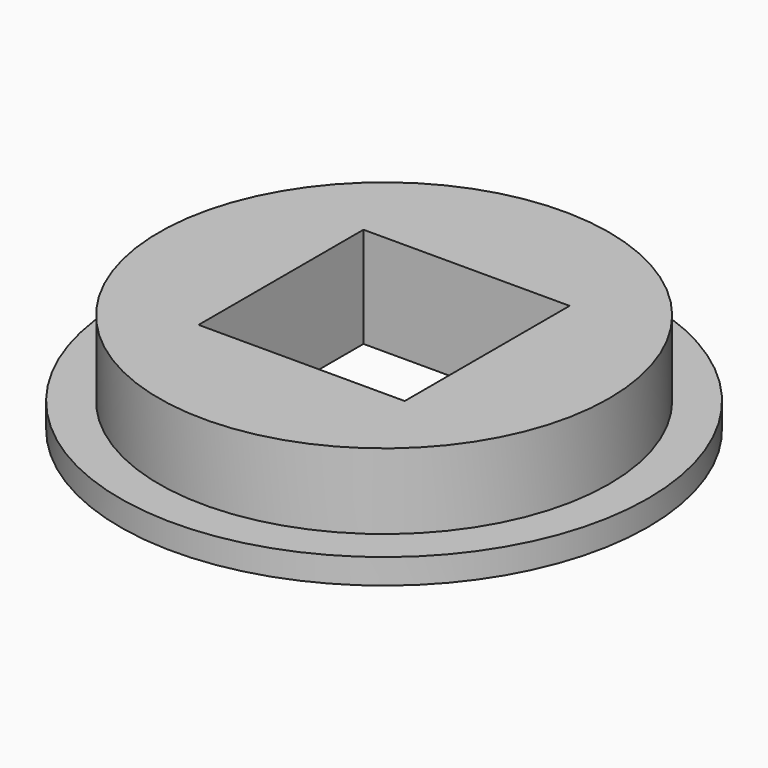
from build123d import *

# Parameters (mm, degrees)
SKETCH_R     = 8.95
SKETCH_W     = 8.2
SKETCH_H     = 8.2
PAD_DEPTH    = 4
SKETCH001_R  = 10.5
SKETCH001_W  = 8.2
SKETCH001_H  = 8.2
PAD001_DEPTH = 1


with BuildPart() as part:
    # Sketch → Pad (new body)
    with BuildSketch(Plane.XY):
        Circle(SKETCH_R)
        Rectangle(SKETCH_W, SKETCH_H, mode=Mode.SUBTRACT)
    extrude(amount=PAD_DEPTH)

    # Sketch001 → Pad001 (join)
    with BuildSketch(Plane.XY):
        Circle(SKETCH001_R)
        Rectangle(SKETCH001_W, SKETCH001_H, mode=Mode.SUBTRACT)
    extrude(amount=PAD001_DEPTH)


solid = part.part
